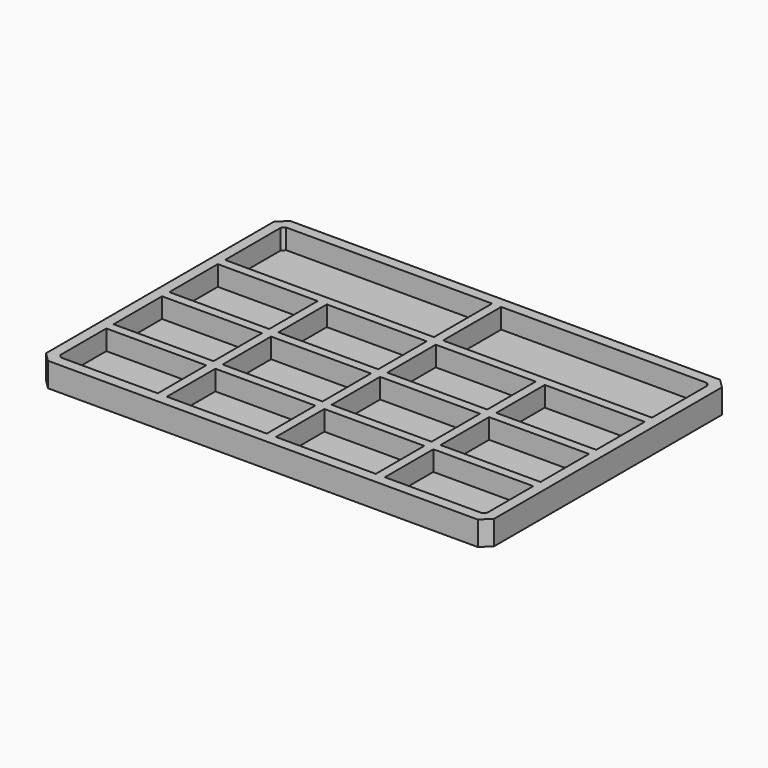
from build123d import *

# Parameters (mm, degrees)
F0_W     = 148
F0_H     = 100
F1_DEPTH = 8
F2_SIZE  = 3
F3_W     = 69
F3_H     = 24
F3_W_2   = 33
F3_H_2   = 20
F4_DEPTH = 6.6
F5_SIZE  = 1


with BuildPart() as f1:
    # F0 (on Top) → F1 (new body)
    with BuildSketch(Plane.XY):
        Rectangle(F0_W, F0_H)
    extrude(amount=F1_DEPTH)

    # F2
    f2_edges = [f1.edges().sort_by_distance(p)[0] for p in [
        (-74, -50, 4),
        (-74, 50, 4),
        (74, 50, 4),
        (74, -50, 4),
    ]]
    chamfer(f2_edges, length=F2_SIZE)

    # F3 (on face) → F4 (cut)
    with BuildSketch(Plane.XY.offset(8)):
        with Locations((-36, 34.5)):
            Rectangle(F3_W, F3_H)
        with Locations((36, 34.5)):
            Rectangle(F3_W, F3_H)
        with Locations((-54, 9.5)):
            Rectangle(F3_W_2, F3_H_2)
        with Locations((-18, 9.5)):
            Rectangle(F3_W_2, F3_H_2)
        with Locations((18, 9.5)):
            Rectangle(F3_W_2, F3_H_2)
        with Locations((54, 9.5)):
            Rectangle(F3_W_2, F3_H_2)
        with Locations((54, -13.5)):
            Rectangle(F3_W_2, F3_H_2)
        with Locations((18, -13.5)):
            Rectangle(F3_W_2, F3_H_2)
        with Locations((-18, -13.5)):
            Rectangle(F3_W_2, F3_H_2)
        with Locations((-54, -13.5)):
            Rectangle(F3_W_2, F3_H_2)
        with Locations((-54, -36.5)):
            Rectangle(F3_W_2, F3_H_2)
        with Locations((-18, -36.5)):
            Rectangle(F3_W_2, F3_H_2)
        with Locations((18, -36.5)):
            Rectangle(F3_W_2, F3_H_2)
        with Locations((54, -36.5)):
            Rectangle(F3_W_2, F3_H_2)
    extrude(amount=-F4_DEPTH, mode=Mode.SUBTRACT)

    # F5
    f5_edges = [f1.edges().sort_by_distance(p)[0] for p in [
        (70.5, 46.5, 4.7),
        (-70.5, 46.5, 4.7),
        (70.5, -46.5, 4.7),
        (-70.5, -46.5, 4.7),
    ]]
    chamfer(f5_edges, length=F5_SIZE)


solid = f1.part
